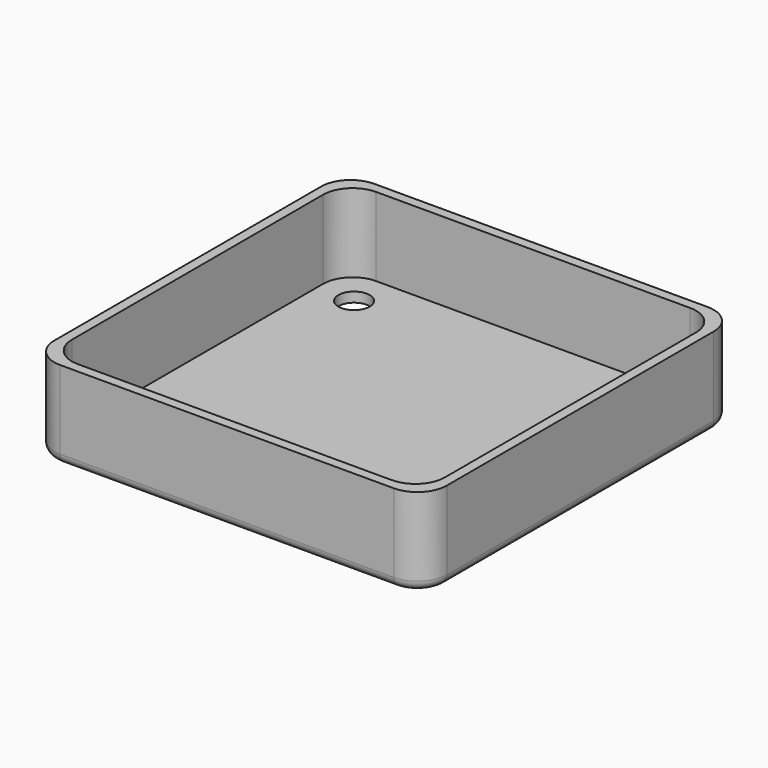
from build123d import *

# Parameters (mm, degrees)
F0_W     = 40
F0_H     = 40
F0_R     = 1.6
F1_DEPTH = 1
F3_DEPTH = 8
F4_R     = 3
F5_R     = 1


with BuildPart() as f1:
    # F0 (on Top) → F1 (new body)
    with BuildSketch(Plane.XY):
        with Locations((-1.320125, -0.328824)):
            Rectangle(F0_W, F0_H)
        with Locations((-16.570125, -15.578824)):
            Circle(F0_R, mode=Mode.SUBTRACT)
        with Locations((13.929875, -15.578824)):
            Circle(F0_R, mode=Mode.SUBTRACT)
        with Locations((-16.570125, 14.921176)):
            Circle(F0_R, mode=Mode.SUBTRACT)
        with Locations((13.929875, 14.921176)):
            Circle(F0_R, mode=Mode.SUBTRACT)
    extrude(amount=F1_DEPTH)

    # F2 (on face) → F3 (join)
    with BuildSketch(Plane.XY.offset(1)):
        Polygon((18.679875, -15.328824), (18.679875, 14.671176), (18.679875, 19.671176), (13.679875, 19.671176), (-16.320125, 19.671176), (-21.320125, 19.671176), (-21.320125, 14.671176), (-21.320125, -15.328824), (-21.320125, -20.328824), (-16.320125, -20.328824), (13.679875, -20.328824), (18.679875, -20.328824), align=None)
        Polygon((17.679875, 18.671176), (17.679875, 14.671176), (17.679875, -15.328824), (17.679875, -19.328824), (13.679875, -19.328824), (-16.320125, -19.328824), (-20.320125, -19.328824), (-20.320125, -15.328824), (-20.320125, 14.671176), (-20.320125, 18.671176), (-16.320125, 18.671176), (13.679875, 18.671176), align=None, mode=Mode.SUBTRACT)
    extrude(amount=F3_DEPTH)

    # F4
    f4_edges = [f1.edges().sort_by_distance(p)[0] for p in [
        (-20.320125, -19.328824, 5),
        (-20.320125, 18.671176, 5),
        (17.679875, 18.671176, 5),
        (17.679875, -19.328824, 5),
        (18.679875, -20.328824, 4.5),
        (18.679875, 19.671176, 4.5),
        (-21.320125, 19.671176, 4.5),
        (-21.320125, -20.328824, 4.5),
    ]]
    fillet(f4_edges, radius=F4_R)

    # F5
    f5_edges = [f1.edges().sort_by_distance(p)[0] for p in [
        (-1.320125, 19.671176, 0),
    ]]
    fillet(f5_edges, radius=F5_R)


solid = f1.part
